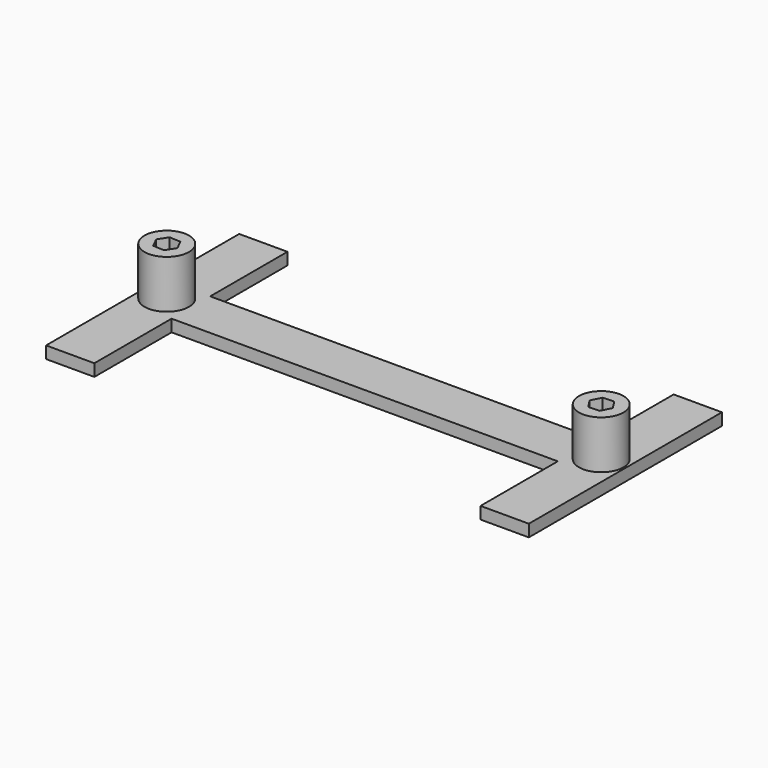
from build123d import *

# Parameters (mm, degrees)
PAD_DEPTH    = 5
SKETCH002_R  = 9.228742
PAD001_DEPTH = 20
POCKET_DEPTH = 15


with BuildPart() as part:
    # Sketch001 → Pad (new body)
    with BuildSketch(Plane.XY):
        Polygon((0, 10), (80, 10), (80, 50), (100, 50), (100, -50), (80, -50), (80, -10), (0, -10), (-80, -10), (-80, -50), (-100, -50), (-100, 50), (-80, 50), (-80, 10), align=None)
    extrude(amount=PAD_DEPTH)

    # Sketch002 → Pad001 (new body)
    with BuildSketch(Plane.XY.offset(5)):
        with Locations((90, 0)):
            Circle(SKETCH002_R)
        with Locations((-90, 0)):
            Circle(SKETCH002_R)
    extrude(amount=PAD001_DEPTH)

    # Sketch003 → Pocket (cut)
    with BuildSketch(Plane.XY.offset(25)):
        Polygon((-87.480573, 3.871152), (-92.092803, 4.117464), (-94.61223, 0.246312), (-92.519427, -3.871152), (-87.907197, -4.117464), (-85.38777, -0.246312), align=None)
    pocket = extrude(amount=-POCKET_DEPTH, mode=Mode.SUBTRACT)

    # Mirrored: Pocket across Sketch003 V_Axis
    add(pocket.mirror(Plane(origin=(0, 0, 25), x_dir=(0, 0, 1), z_dir=(1, 0, 0))), mode=Mode.SUBTRACT)


solid = part.part
